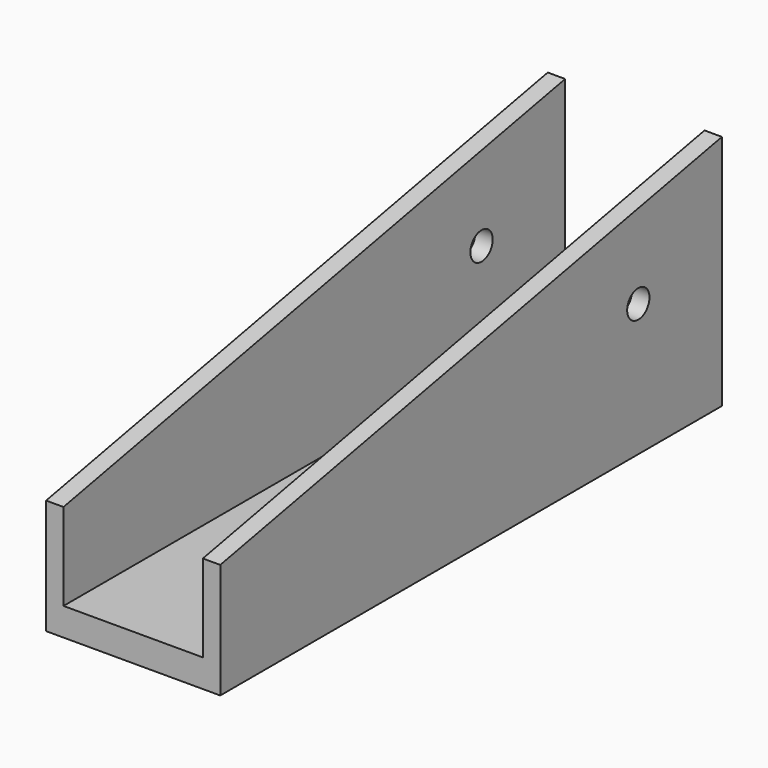
from build123d import *

# Parameters (mm, degrees)
F0_W     = 50
F0_H     = 180
F1_DEPTH = 8
F2_R     = 4
F3_DEPTH = 5
F4_R     = 4
F5_DEPTH = 5


with BuildPart() as f1:
    # F0 (on Top) → F1 (new body)
    with BuildSketch(Plane.XY):
        with Locations((-2.453425, -15.13525)):
            Rectangle(F0_W, F0_H)
    extrude(amount=-F1_DEPTH)

    # F2 (on face) → F3 (join)
    with BuildSketch(Plane(origin=(-27.453425, 0, 0), x_dir=(0, -1, 0), z_dir=(-1, 0, 0))):
        Polygon((-74.86475, 60), (-74.86475, 0), (105.13525, 0), (105.13525, 25), align=None)
        with Locations((-44.86475, 30)):
            Circle(F2_R, mode=Mode.SUBTRACT)
    extrude(amount=-F3_DEPTH)

    # F4 (on face) → F5 (join)
    with BuildSketch(Plane.YZ.offset(22.546575)):
        Polygon((-105.13525, 25), (-105.13525, 0), (74.86475, 0), (74.86475, 60), align=None)
        with Locations((44.86475, 30)):
            Circle(F4_R, mode=Mode.SUBTRACT)
    extrude(amount=-F5_DEPTH)


solid = f1.part
